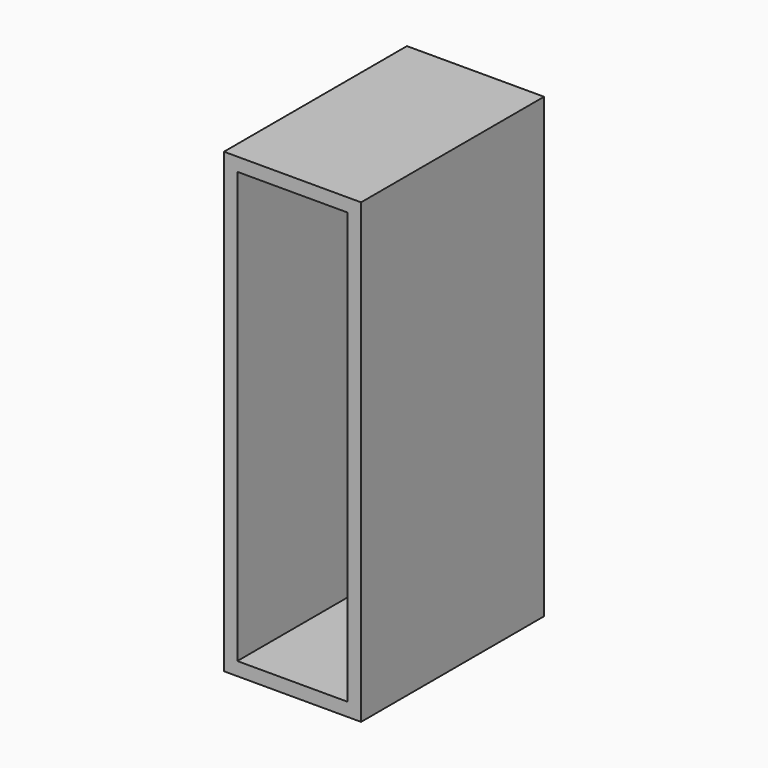
from build123d import *

# Parameters (mm, degrees)
F0_W     = 599.44
F0_H     = 999.998
F1_DEPTH = 1999.996
F2_W     = 482.6
F2_H     = 1883.156
F3_DEPTH = 999.999


with BuildPart() as f1:
    # F0 (on Top) → F1 (new body)
    with BuildSketch(Plane.XY):
        Rectangle(F0_W, F0_H)
    extrude(amount=F1_DEPTH)

    # F2 (on face) → F3 (cut, through all)
    with BuildSketch(Plane.XZ.offset(499.999)):
        with Locations((0, 999.998)):
            Rectangle(F2_W, F2_H)
    extrude(amount=-F3_DEPTH, mode=Mode.SUBTRACT)


solid = f1.part
